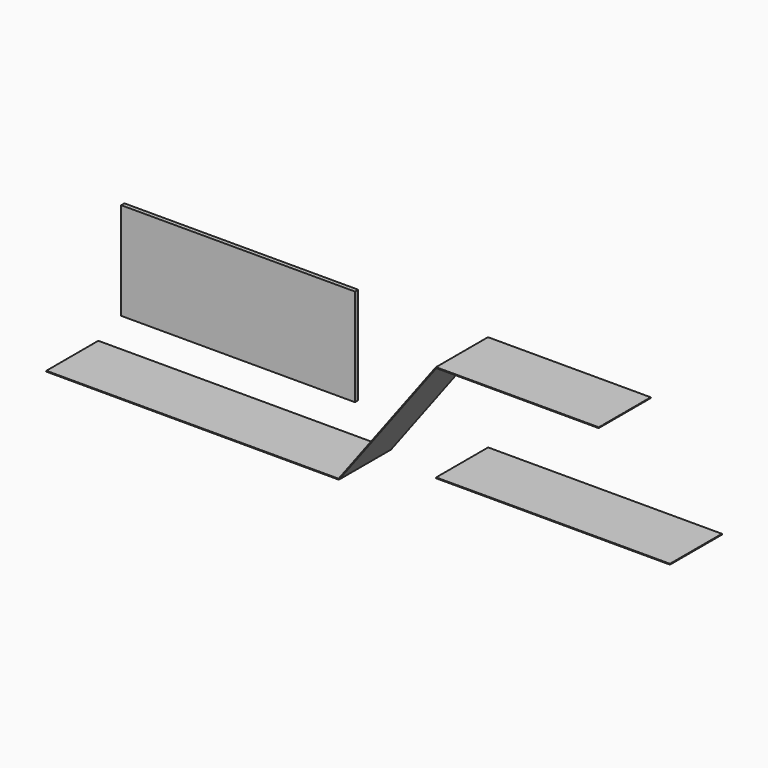
from build123d import *

# Parameters (mm, degrees)
F0_W     = 1440
F0_H     = 600
F1_DEPTH = 25
F3_DEPTH = 400
F2_W     = 1440
F2_H     = 5


with BuildPart() as f1:
    # F0 (on Front) → F1 (new body)
    with BuildSketch(Plane.XZ):
        with Locations((-720, 300)):
            Rectangle(F0_W, F0_H)
    extrude(amount=F1_DEPTH)


with BuildPart() as f3:
    # F2 (on Front) → F3 (new body)
    with BuildSketch(Plane.XZ):
        with BuildLine():
            ThreePointArc((198, -198.5), (197.6282917549, -199.209430585), (197.5, -200))
            Line((197.5, -200), (200, -200))
            Line((200, -200), (201.5, -198))
            ThreePointArc((201.5, -198), (200.790569415, -197.6282917549), (200, -197.5))
            Line((200, -197.5), (198.75, -197.5))
            Line((198.75, -197.5), (198, -198.5))
        make_face()
        with BuildLine():
            Line((200, -200), (197.5, -200))
            ThreePointArc((197.5, -200), (198.232233047, -201.767766953), (200, -202.5))
            ThreePointArc((200, -202.5), (201.1180339887, -202.2360679775), (202, -201.5))
            ThreePointArc((202, -201.5), (202.4748737342, -199.6464466094), (201.5, -198))
            Line((201.5, -198), (200, -200))
        make_face()
        with BuildLine():
            ThreePointArc((200, -202.5), (198.232233047, -201.767766953), (197.5, -200))
            ThreePointArc((197.5, -200), (197.6282917549, -199.209430585), (198, -198.5))
            Line((198, -198.5), (198.75, -197.5))
            Line((198.75, -197.5), (-1600, -197.5))
            ThreePointArc((-1600, -197.5), (-1602.5, -200), (-1600, -202.5))
            Line((-1600, -202.5), (200, -202.5))
        make_face()
        with BuildLine():
            ThreePointArc((200, -197.5), (200.790569415, -197.6282917549), (201.5, -198))
            Line((201.5, -198), (798.5, 598))
            ThreePointArc((798.5, 598), (797.5251262658, 599.6464466094), (798, 601.5))
            Line((798, 601.5), (198.75, -197.5))
            Line((198.75, -197.5), (200, -197.5))
        make_face()
        with BuildLine():
            Line((798.5, 598), (201.5, -198))
            ThreePointArc((201.5, -198), (202.4748737342, -199.6464466094), (202, -201.5))
            Line((202, -201.5), (801.25, 597.5))
            Line((801.25, 597.5), (800, 597.5))
            ThreePointArc((800, 597.5), (799.209430585, 597.6282917549), (798.5, 598))
        make_face()
        with BuildLine():
            ThreePointArc((798, 601.5), (797.5251262658, 599.6464466094), (798.5, 598))
            Line((798.5, 598), (800, 600))
            Line((800, 600), (802.5, 600))
            ThreePointArc((802.5, 600), (801.767766953, 601.767766953), (800, 602.5))
            ThreePointArc((800, 602.5), (798.8819660113, 602.2360679775), (798, 601.5))
        make_face()
        with BuildLine():
            Line((800, 600), (798.5, 598))
            ThreePointArc((798.5, 598), (799.209430585, 597.6282917549), (800, 597.5))
            Line((800, 597.5), (801.25, 597.5))
            Line((801.25, 597.5), (802, 598.5))
            ThreePointArc((802, 598.5), (802.3717082451, 599.209430585), (802.5, 600))
            Line((802.5, 600), (800, 600))
        make_face()
        with BuildLine():
            Line((802, 598.5), (801.25, 597.5))
            Line((801.25, 597.5), (1800, 597.5))
            ThreePointArc((1800, 597.5), (1802.5, 600), (1800, 602.5))
            Line((1800, 602.5), (800, 602.5))
            ThreePointArc((800, 602.5), (801.767766953, 601.767766953), (802.5, 600))
            ThreePointArc((802.5, 600), (802.3717082451, 599.209430585), (802, 598.5))
        make_face()
    extrude(amount=F3_DEPTH)


with BuildPart() as f3b:
    # F2 (on Front) → F3, piece 2 (new body)
    with BuildSketch(Plane.XZ):
        with Locations((1520, 2.5)):
            Rectangle(F2_W, F2_H)
    extrude(amount=F3_DEPTH)


solid = Compound([f1.part, f3.part, f3b.part])
